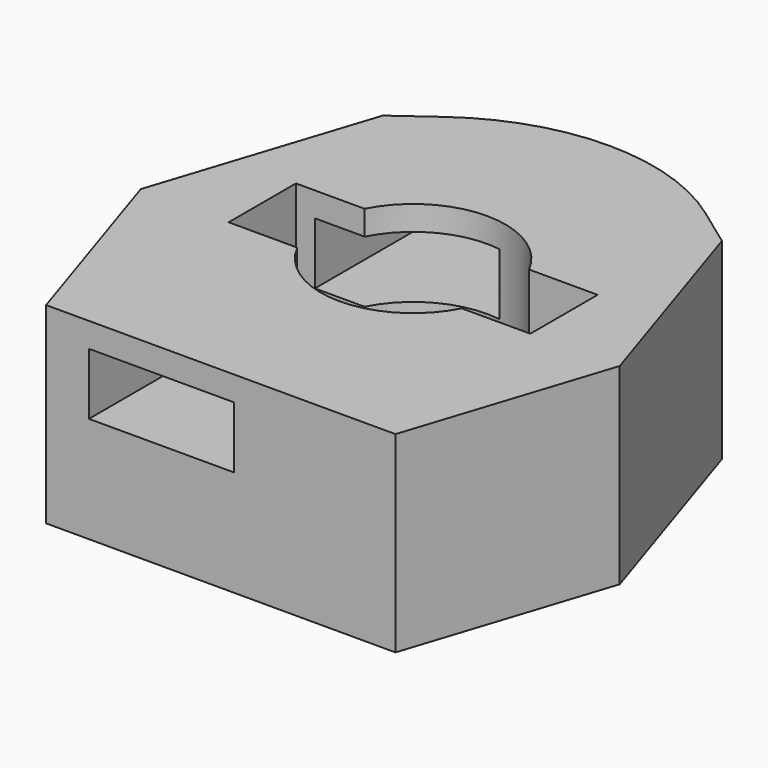
from build123d import *

# Parameters (mm, degrees)
F1_DEPTH = 27.94
F3_DEPTH = 21.082
F4_SIZE  = 20.32
F5_R     = 32.2788379885
F7_DEPTH = 79.756


with BuildPart() as f1:
    # F0 (on Top) → F1 (new body)
    with BuildSketch(Plane.XY):
        Polygon((-25.3970509228, -34.9560417235), (25.3970509228, -34.9560417235), (41.0932916072, 13.3520198262), (0, 43.2080437946), (-41.0932916072, 13.3520198262), align=None)
    extrude(amount=F1_DEPTH)

    # F2 (on face) → F3 (cut)
    with BuildSketch(Plane.XY.offset(27.94)):
        with BuildLine():
            ThreePointArc((11.9541147078, -6.116611883), (13.0544018595, -3.1458530584), (13.4280973848, 0))
            ThreePointArc((13.4280973848, 0), (13.0544018595, 3.1458530584), (11.9541147078, 6.116611883))
            Line((11.9541147078, 6.116611883), (-11.9541147078, 6.116611883))
            ThreePointArc((-11.9541147078, 6.116611883), (-13.4280973848, 0), (-11.9541147078, -6.116611883))
            Line((-11.9541147078, -6.116611883), (11.9541147078, -6.116611883))
        make_face()
        with BuildLine():
            ThreePointArc((11.9541147078, 6.116611883), (13.0544018595, 3.1458530584), (13.4280973848, 0))
            ThreePointArc((13.4280973848, 0), (13.0544018595, -3.1458530584), (11.9541147078, -6.116611883))
            Line((11.9541147078, -6.116611883), (21.9304449856, -6.116611883))
            Line((21.9304449856, -6.116611883), (21.9304449856, 6.116611883))
            Line((21.9304449856, 6.116611883), (11.9541147078, 6.116611883))
        make_face()
        with BuildLine():
            Line((-11.9541147078, 6.116611883), (11.9541147078, 6.116611883))
            ThreePointArc((11.9541147078, 6.116611883), (0, 13.4280973848), (-11.9541147078, 6.116611883))
        make_face()
        with BuildLine():
            ThreePointArc((-11.9541147078, -6.116611883), (0, -13.4280973848), (11.9541147078, -6.116611883))
            Line((11.9541147078, -6.116611883), (-11.9541147078, -6.116611883))
        make_face()
        with BuildLine():
            ThreePointArc((-11.9541147078, -6.116611883), (-13.4280973848, 0), (-11.9541147078, 6.116611883))
            Line((-11.9541147078, 6.116611883), (-21.9304449856, 6.116611883))
            Line((-21.9304449856, 6.116611883), (-21.9304449856, -6.116611883))
            Line((-21.9304449856, -6.116611883), (-11.9541147078, -6.116611883))
        make_face()
    extrude(amount=-F3_DEPTH, mode=Mode.SUBTRACT)

    # F4
    f4_edges = [f1.edges().sort_by_distance(p)[0] for p in [
        (41.093292, 13.35202, 13.97),
        (-41.093292, 13.35202, 13.97),
    ]]
    chamfer(f4_edges, length=F4_SIZE)

    # F5
    f5_edges = [f1.edges().sort_by_distance(p)[0] for p in [
        (0, 43.208044, 13.97),
    ]]
    fillet(f5_edges, radius=F5_R)

    # F6 (on face) → F7 (cut)
    with BuildSketch(Plane.XZ.offset(34.9560417235)):
        Polygon((-11.2271035568, 24.371245876), (-19.1699936986, 24.371245876), (-19.1699936986, 15.4024865478), (-11.2271035568, 15.4024865478), (-13.8161613629, 19.8868662119), align=None)
        Polygon((-6.0489879444, 24.371245876), (-11.2271035568, 24.371245876), (-13.8161613629, 19.8868662119), (-11.2271035568, 15.4024865478), (-6.0489879444, 15.4024865478), (-3.4599301382, 19.8868662119), align=None)
        Polygon((1.8939021975, 24.371245876), (-6.0489879444, 24.371245876), (-3.4599301382, 19.8868662119), (-6.0489879444, 15.4024865478), (1.8939021975, 15.4024865478), align=None)
    extrude(amount=-F7_DEPTH, mode=Mode.SUBTRACT)


solid = f1.part
